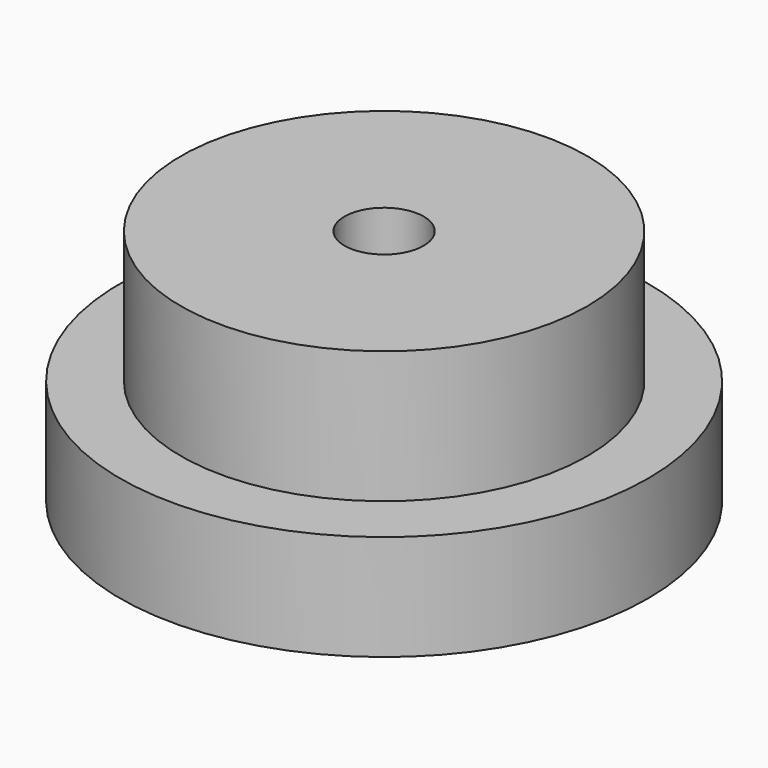
from build123d import *

# Parameters (mm, degrees)
F0_R     = 50
F1_DEPTH = 20
F2_R     = 38.5
F3_DEPTH = 25
F5_R     = 7.5
F6_DEPTH = 50
F7_R     = 15
F8_DEPTH = 10


with BuildPart() as f1:
    # F0 (on Top) → F1 (new body)
    with BuildSketch(Plane.XY):
        Circle(F0_R)
    extrude(amount=F1_DEPTH)

    # F2 (on face) → F3 (join)
    with BuildSketch(Plane.XY.offset(20)):
        Circle(F2_R)
    extrude(amount=F3_DEPTH)

    # F5 (on face) → F6 (cut)
    with BuildSketch(Plane.XY.offset(45)):
        Circle(F5_R)
    extrude(amount=-F6_DEPTH, mode=Mode.SUBTRACT)

    # F7 (on face) → F8 (cut)
    with BuildSketch(Plane(origin=(0, 0, 0), x_dir=(1, 0, 0), z_dir=(0, 0, -1))):
        Circle(F7_R)
    extrude(amount=-F8_DEPTH, mode=Mode.SUBTRACT)


solid = f1.part
